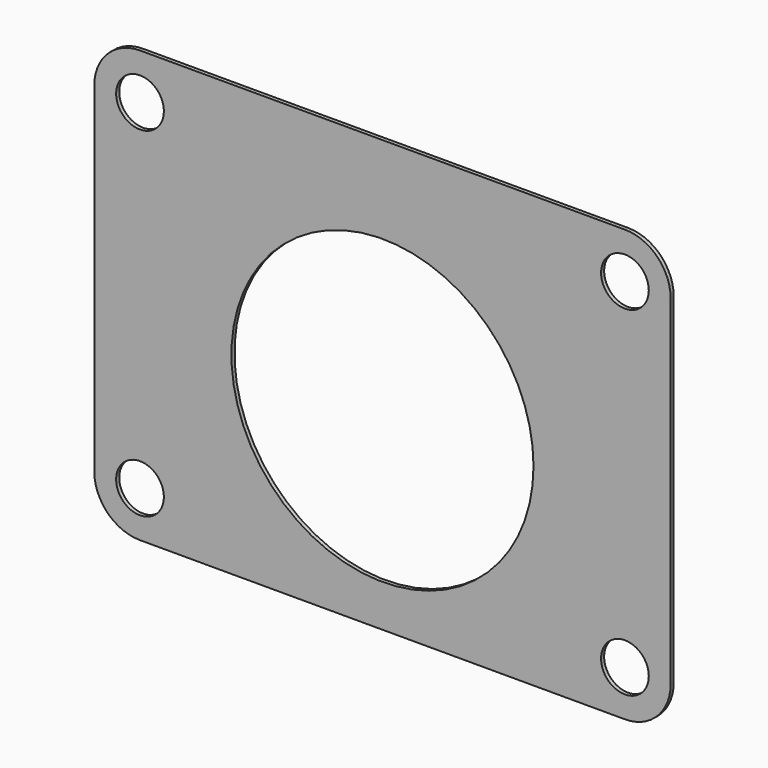
from build123d import *

# Parameters (mm, degrees)
F0_R     = 4.9149
F0_R_2   = 31.115
F1_DEPTH = 0.79375


with BuildPart() as f1:
    # F0 (on Front) → F1 (new body)
    with BuildSketch(Plane.XZ):
        with BuildLine():
            Line((49.9491, 44.40555), (-49.9491, 44.40555))
            ThreePointArc((-49.9491, 44.40555), (-56.61245, 41.6455), (-59.3725, 34.98215))
            Line((-59.3725, 34.98215), (-59.3725, -34.98215))
            ThreePointArc((-59.3725, -34.98215), (-56.61245, -41.6455), (-49.9491, -44.40555))
            Line((-49.9491, -44.40555), (49.9491, -44.40555))
            ThreePointArc((49.9491, -44.40555), (56.61245, -41.6455), (59.3725, -34.98215))
            Line((59.3725, -34.98215), (59.3725, 34.98215))
            ThreePointArc((59.3725, 34.98215), (56.61245, 41.6455), (49.9491, 44.40555))
        make_face()
        with Locations((-49.9491, -34.98215)):
            Circle(F0_R, mode=Mode.SUBTRACT)
        with Locations((0, -4.6228)):
            Circle(F0_R_2, mode=Mode.SUBTRACT)
        with Locations((49.9491, -34.98215)):
            Circle(F0_R, mode=Mode.SUBTRACT)
        with Locations((-49.9491, 34.98215)):
            Circle(F0_R, mode=Mode.SUBTRACT)
        with Locations((49.9491, 34.98215)):
            Circle(F0_R, mode=Mode.SUBTRACT)
    extrude(amount=F1_DEPTH)


solid = f1.part
